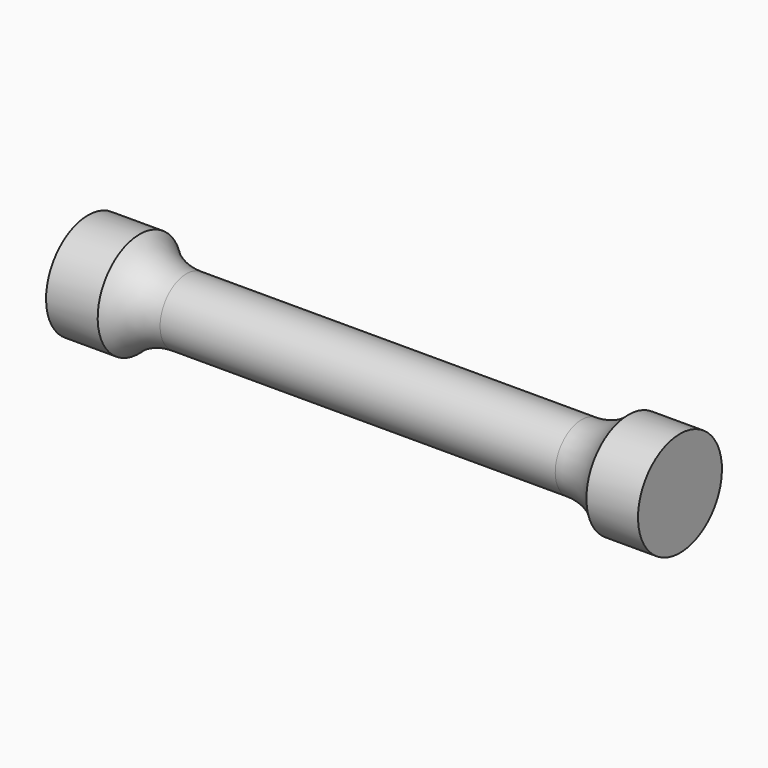
from build123d import *


with BuildPart() as f1:
    # F0 (on Front) → F1 (revolve)
    with BuildSketch(Plane.XZ):
        with BuildLine():
            Line((-26.966805, 0), (0, 0))
            Line((0, 0), (0, 3))
            Line((0, 3), (-18, 3))
            ThreePointArc((-18, 3), (-20.309864, 3.462444), (-22.263667, 4.77849))
            Line((-22.263667, 4.77849), (-26.966805, 4.77849))
            Line((-26.966805, 4.77849), (-26.966805, 0))
        make_face()
        with BuildLine():
            Line((0, 3), (0, 0))
            Line((0, 0), (26.966805, 0))
            Line((26.966805, 0), (26.966805, 4.77849))
            Line((26.966805, 4.77849), (22.263667, 4.77849))
            ThreePointArc((22.263667, 4.77849), (20.309864, 3.462444), (18, 3))
            Line((18, 3), (0, 3))
        make_face()
    revolve(axis=Axis((0, 0, 0), (1, 0, 0)))


solid = f1.part
